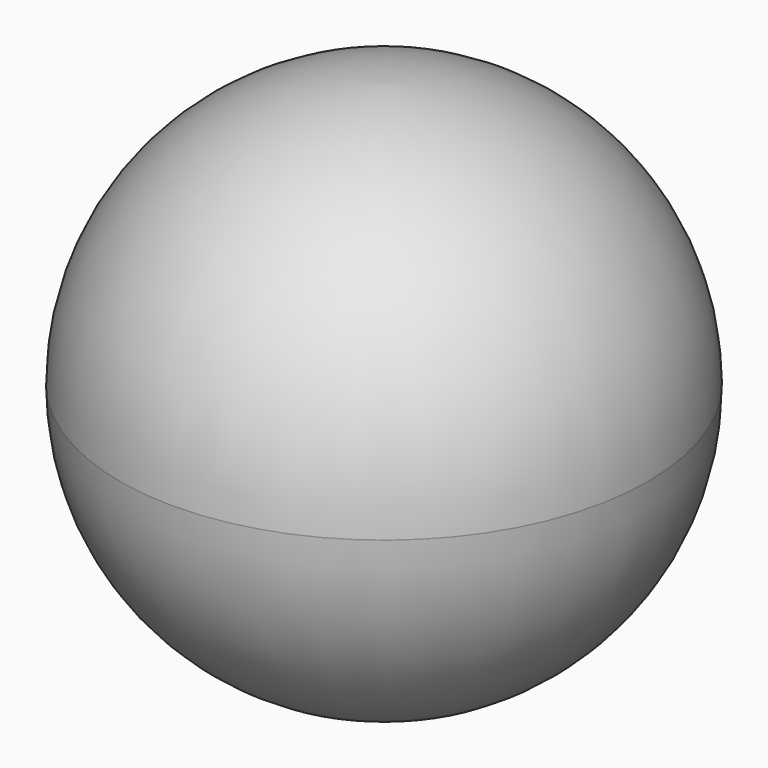
from build123d import *

# Parameters (mm, degrees)
F0_R     = 36.3728
F1_DEPTH = 72.7456
F2_R     = 36.3474
F3_R     = 36.3474
F4_R     = 5.0660111754
F5_DEPTH = 8.6868


with BuildPart() as f1:
    # F0 (on Top) → F1 (new body)
    with BuildSketch(Plane.XY):
        Circle(F0_R)
    extrude(amount=F1_DEPTH)

    # F2
    f2_edges = [f1.edges().sort_by_distance(p)[0] for p in [
        (-36.3728, 0, 72.7456),
    ]]
    fillet(f2_edges, radius=F2_R)

    # F3
    f3_edges = [f1.edges().sort_by_distance(p)[0] for p in [
        (-36.3728, 0, 0),
        (-36.3728, 0, 36.3982),
    ]]
    fillet(f3_edges, radius=F3_R)

    # F4 (on Top) → F5 (cut)
    with BuildSketch(Plane.XY):
        Circle(F4_R)
    extrude(amount=F5_DEPTH, mode=Mode.SUBTRACT)


solid = f1.part
